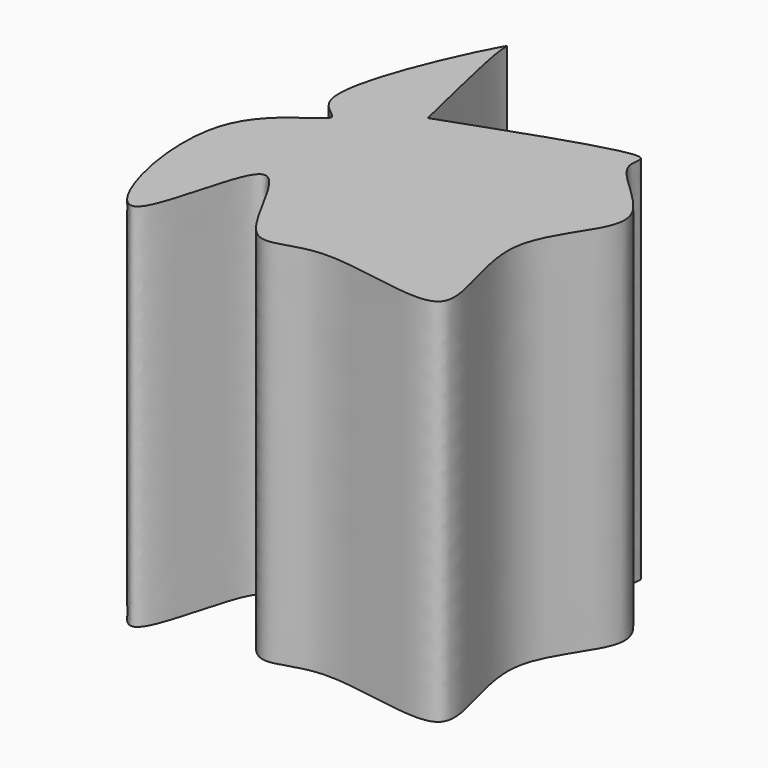
from build123d import *

# Parameters (mm, degrees)
F1_DEPTH = 100


with BuildPart() as f1:
    # F0 (on Top) → F1 (new body)
    with BuildSketch(Plane.XY):
        with BuildLine():
            add(Edge.make_bspline(
                [(-56.8377040327, 9.472951293), (-59.0575192518, 19.8339804413), (-41.9477263215, 54.5104144719), (-43.7297977892, 47.7938111773), (-35.2828130079, 15.4710564033), (-35.8131917588, 14.3845076367), (16.8475587936, 34.8778104541), (7.4865412896, 22.2190789575), (37.1713569051, 5.6576752325), (6.1780779407, -16.6808646242), (32.0268305438, -59.796331432), (-16.5542397126, -41.7191582989), (-31.8596916616, -57.8668806688), (-48.7217141381, -5.7530171777), (-56.9729774364, -81.8569522558), (-78.5081503969, -8.2855699859), (-44.5975787699, 2.3965715505), (-55.8435667936, 4.8327970934), (-56.8377040327, 9.472951293)],
                knots=[0, 0, 0, 0, 0.0894727911, 0.1075158786, 0.1872085317, 0.1959084903, 0.2896456332, 0.319162579, 0.3847724539, 0.4556170193, 0.5293566369, 0.6081864439, 0.6625132315, 0.7325339089, 0.8076084686, 0.8950837722, 0.9599298929, 1, 1, 1, 1], degree=3))
        make_face()
    extrude(amount=F1_DEPTH)


solid = f1.part
